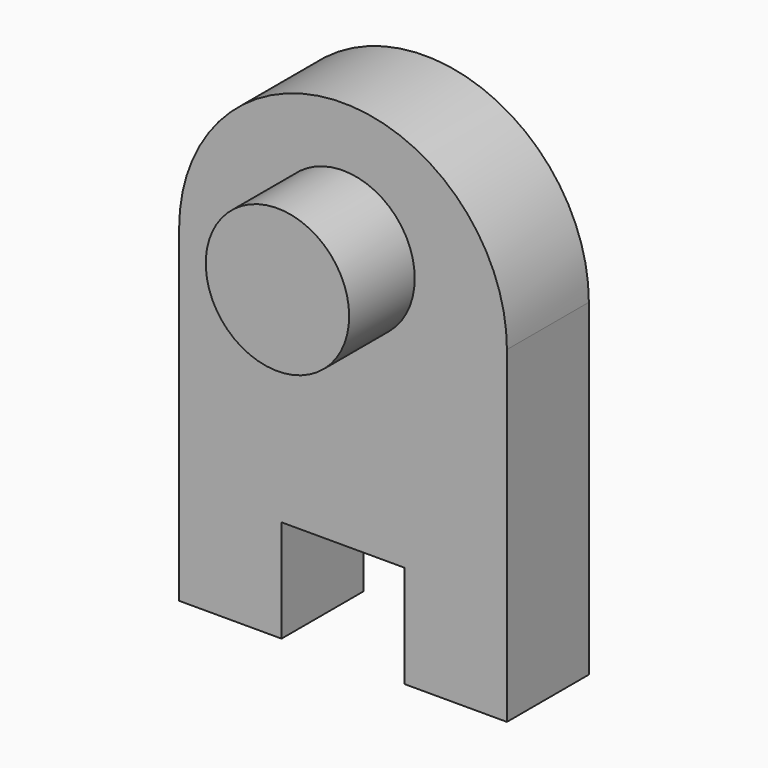
from build123d import *

# Parameters (mm, degrees)
F1_DEPTH = 250
F2_W     = 300
F2_H     = 250
F3_DEPTH = 250.001
F4_R     = 175
F5_DEPTH = 200


with BuildPart() as f1:
    # F0 (on Front) → F1 (new body)
    with BuildSketch(Plane.XZ):
        with BuildLine():
            Line((-400, 400), (-400, -400))
            Line((-400, -400), (400, -400))
            Line((400, -400), (400, 400))
            ThreePointArc((400, 400), (0, 800), (-400, 400))
        make_face()
    extrude(amount=F1_DEPTH)

    # F2 (on face) → F3 (cut, through all)
    with BuildSketch(Plane.XZ.offset(250)):
        with Locations((0, -275)):
            Rectangle(F2_W, F2_H)
    extrude(amount=-F3_DEPTH, mode=Mode.SUBTRACT)

    # F4 (on face) → F5 (join)
    with BuildSketch(Plane.XZ.offset(250)):
        with Locations((0, 479.755472)):
            Circle(F4_R)
    extrude(amount=F5_DEPTH)


solid = f1.part
